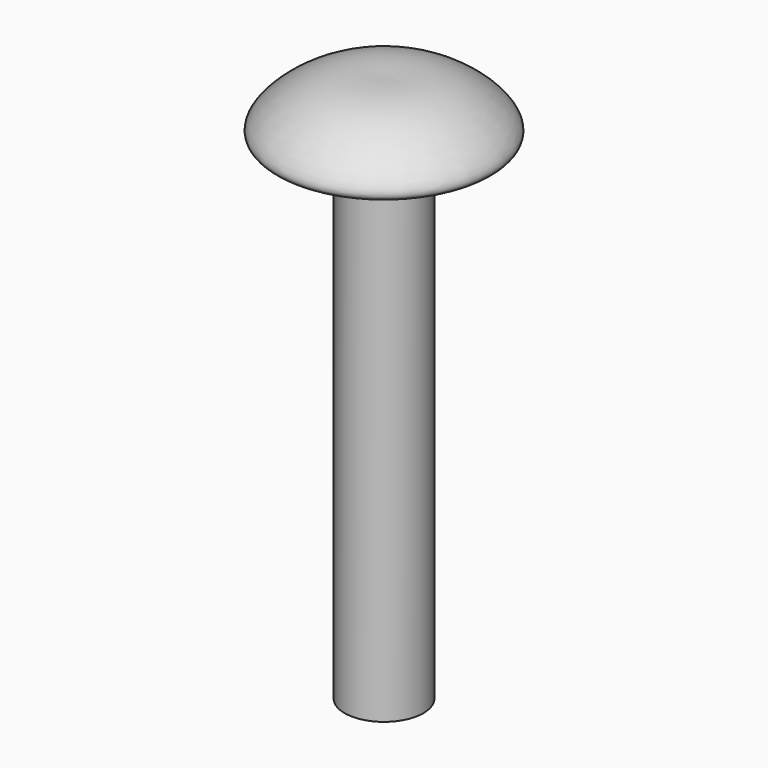
from build123d import *


with BuildPart() as f1:
    # F0 (on Front) → F1 (revolve)
    with BuildSketch(Plane.XZ):
        with BuildLine():
            add(Edge.make_bspline(
                [(0, 25.4), (1.0394956926, 25.4258665945), (3.0250149968, 25.4752738436), (6.2726142378, 22.514479035), (3.3548400878, 22.5681464365), (1.8219978281, 22.5963404147)],
                knots=[0, 0, 0, 0, 0.3427762434, 0.6547298398, 1, 1, 1, 1], degree=3))
            Line((0, 25.4), (0, 0))
            Line((0, 0), (1.8219978281, 0))
            Line((1.8219978281, 0), (1.8219978281, 22.5963404147))
        make_face()
    revolve(axis=Axis((0, 0, 12.7), (0, 0, 1)))


solid = f1.part
